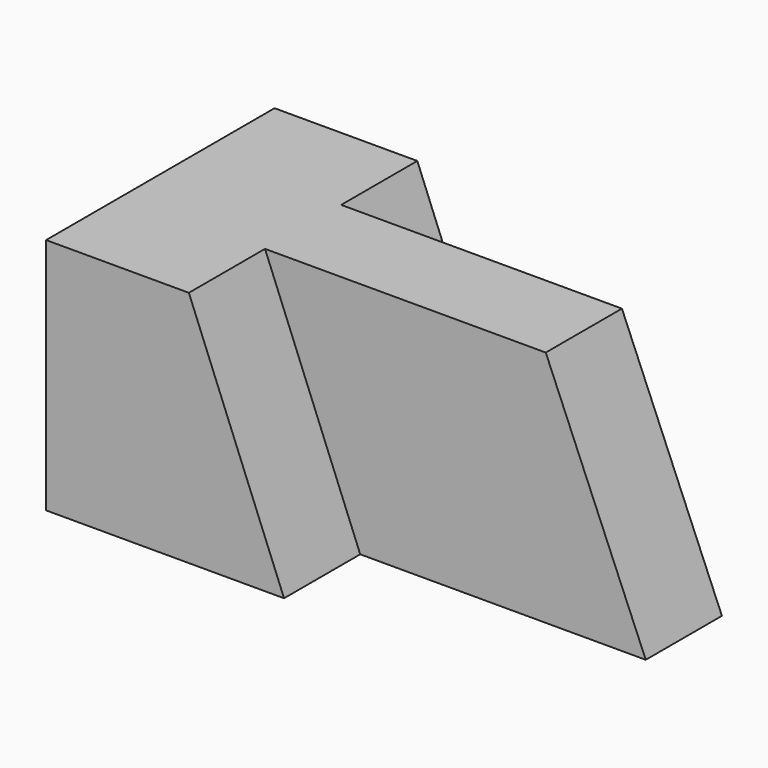
from build123d import *

# Parameters (mm, degrees)
F1_DEPTH = 31.75
F3_DEPTH = 25.4
F5_DEPTH = 12.7
F7_DEPTH = 12.7


with BuildPart() as f1:
    # F0 (on Top) → F1 (new body)
    with BuildSketch(Plane.XY):
        Polygon((0, 38.1), (0, 0), (31.75, 0), (31.75, 12.7), (69.85, 12.7), (69.85, 25.4), (31.75, 25.4), (31.75, 38.1), align=None)
    extrude(amount=F1_DEPTH)

    # F2 (on face) → F3 (cut)
    with BuildSketch(Plane.XZ.offset(-12.7)):
        Polygon((69.85, 31.75), (56.507498, 31.75), (69.85, 0), align=None)
    extrude(amount=-F3_DEPTH, mode=Mode.SUBTRACT)

    # F4 (on face) → F5 (cut)
    with BuildSketch(Plane.XZ):
        Polygon((31.75, 31.75), (19.05, 31.75), (31.75, 0), align=None)
    extrude(amount=-F5_DEPTH, mode=Mode.SUBTRACT)

    # F6 (on face) → F7 (cut)
    with BuildSketch(Plane(origin=(0, 38.1, 0), x_dir=(-1, 0, 0), z_dir=(0, 1, 0))):
        Polygon((-31.75, 31.75), (-31.75, 0), (-19.05, 31.75), align=None)
    extrude(amount=-F7_DEPTH, mode=Mode.SUBTRACT)


solid = f1.part
